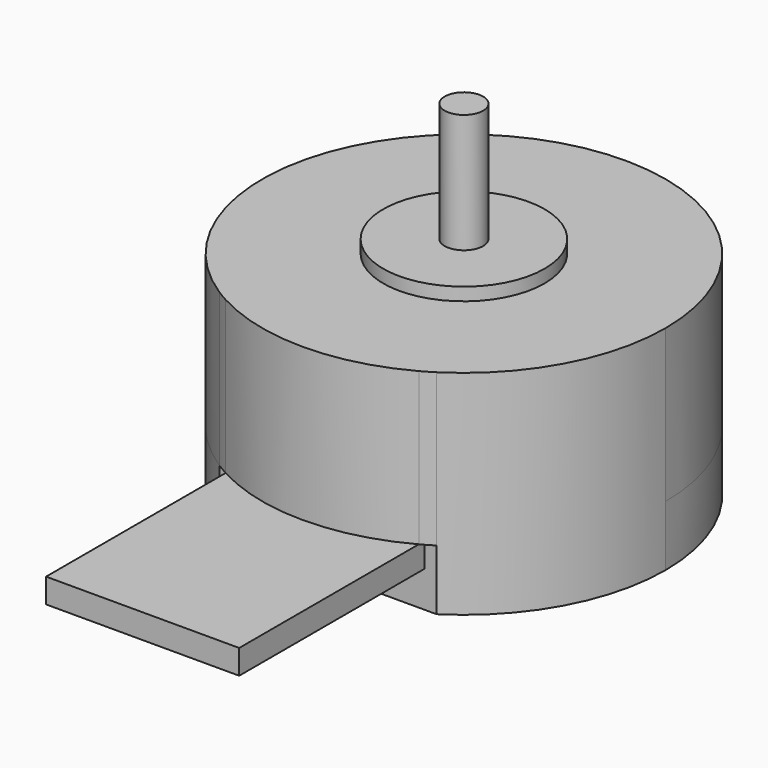
from build123d import *

# Parameters (mm, degrees)
F0_R     = 3
F0_R_2   = 0.715
F1_DEPTH = 5.67
F2_DEPTH = 6.15
F3_DEPTH = 10.58
F4_DEPTH = 2.25
F5_DEPTH = 0.91


with BuildPart() as f1:
    # F0 (on Top) → F1 (new body)
    with BuildSketch(Plane.XY):
        with BuildLine():
            ThreePointArc((4.038266955, -6.32), (6.5778796798, -3.6029847236), (7.5, 0))
            ThreePointArc((7.5, 0), (-3.6029847236, 6.5778796798), (-4.038266955, -6.32))
            Line((-4.038266955, -6.32), (-3.59, -6.32))
            Line((-3.59, -6.32), (3.59, -6.32))
            Line((3.59, -6.32), (4.038266955, -6.32))
        make_face()
        Circle(F0_R, mode=Mode.SUBTRACT)
        Circle(F0_R)
        Circle(F0_R_2, mode=Mode.SUBTRACT)
        with BuildLine():
            Line((-3.59, -6.32), (-3.59, -6.5849753227))
            ThreePointArc((-3.59, -6.5849753227), (0, -7.5), (3.59, -6.5849753227))
            Line((3.59, -6.5849753227), (3.59, -6.32))
            Line((3.59, -6.32), (-3.59, -6.32))
        make_face()
        Circle(F0_R_2)
        with BuildLine():
            ThreePointArc((3.59, -6.5849753227), (3.8164338282, -6.4563792357), (4.038266955, -6.32))
            Line((4.038266955, -6.32), (3.59, -6.32))
            Line((3.59, -6.32), (3.59, -6.5849753227))
        make_face()
        with BuildLine():
            Line((-3.59, -6.32), (-4.038266955, -6.32))
            ThreePointArc((-4.038266955, -6.32), (-3.8164338282, -6.4563792357), (-3.59, -6.5849753227))
            Line((-3.59, -6.5849753227), (-3.59, -6.32))
        make_face()
    extrude(amount=F1_DEPTH)

    # F0 (on Top) → F2 (join)
    with BuildSketch(Plane.XY):
        Circle(F0_R)
        Circle(F0_R_2, mode=Mode.SUBTRACT)
        Circle(F0_R_2)
    extrude(amount=F2_DEPTH)

    # F0 (on Top) → F3 (join)
    with BuildSketch(Plane.XY):
        Circle(F0_R_2)
    extrude(amount=F3_DEPTH)

    # F0 (on Top) → F4 (join)
    with BuildSketch(Plane.XY):
        with BuildLine():
            ThreePointArc((4.038266955, -6.32), (6.5778796798, -3.6029847236), (7.5, 0))
            ThreePointArc((7.5, 0), (-3.6029847236, 6.5778796798), (-4.038266955, -6.32))
            Line((-4.038266955, -6.32), (-3.59, -6.32))
            Line((-3.59, -6.32), (3.59, -6.32))
            Line((3.59, -6.32), (4.038266955, -6.32))
        make_face()
        Circle(F0_R, mode=Mode.SUBTRACT)
        Circle(F0_R)
        Circle(F0_R_2, mode=Mode.SUBTRACT)
        Circle(F0_R_2)
    extrude(amount=-F4_DEPTH)

    # F0 (on Top) → F5 (join)
    with BuildSketch(Plane.XY):
        with BuildLine():
            Line((-3.59, -6.32), (-3.59, -6.5849753227))
            ThreePointArc((-3.59, -6.5849753227), (0, -7.5), (3.59, -6.5849753227))
            Line((3.59, -6.5849753227), (3.59, -6.32))
            Line((3.59, -6.32), (-3.59, -6.32))
        make_face()
        with BuildLine():
            ThreePointArc((3.59, -6.5849753227), (0, -7.5), (-3.59, -6.5849753227))
            Line((-3.59, -6.5849753227), (-3.59, -14.931))
            Line((-3.59, -14.931), (3.59, -14.931))
            Line((3.59, -14.931), (3.59, -6.5849753227))
        make_face()
    extrude(amount=-F5_DEPTH)


solid = f1.part
